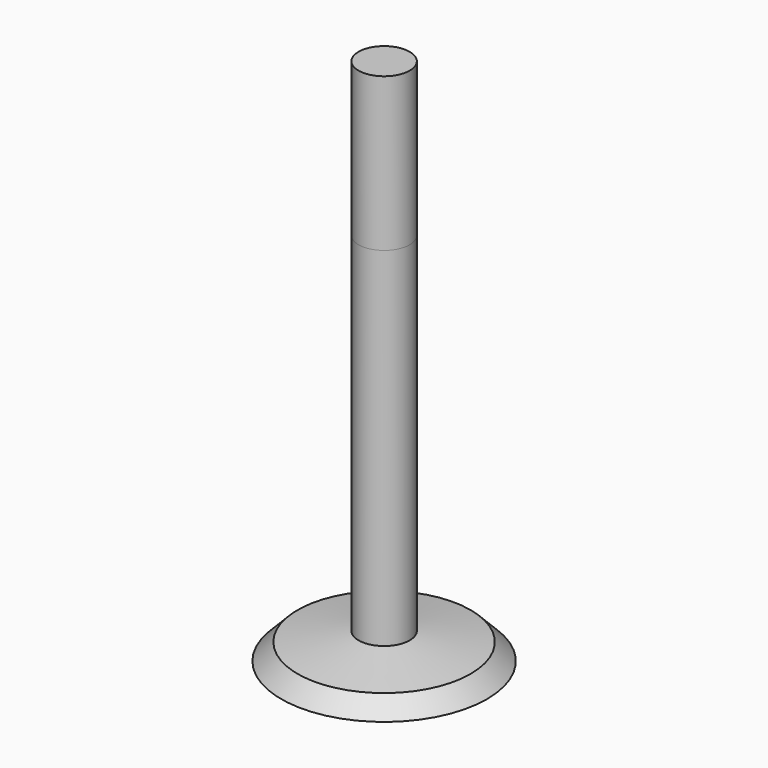
from build123d import *

# Parameters (mm, degrees)
F3_DEPTH = 50.8
F4_DEPTH = 22.225


with BuildPart() as f2:
    # F1 (on Front) → F2 (revolve)
    with BuildSketch(Plane.XZ):
        Polygon((0, 69.85), (0, 0), (19.177, 0), (16.1234308034, 3.1421328895), (4.7625, 4.9503548071), (4.7625, 69.85), align=None)
    revolve(axis=Axis((0, 0, 0), (0, 0, 1)))

    # F3 (add): a face of the model
    f3_faces = [f2.faces().sort_by_distance(p)[0] for p in [
        (0, 0, 69.85),
    ]]
    extrude(f3_faces, amount=F3_DEPTH)

    # F4 (cut): a face of the model
    f4_faces = [f2.faces().sort_by_distance(p)[0] for p in [
        (0, 0, 120.65),
    ]]
    extrude(f4_faces, amount=-F4_DEPTH, mode=Mode.SUBTRACT)


solid = f2.part
